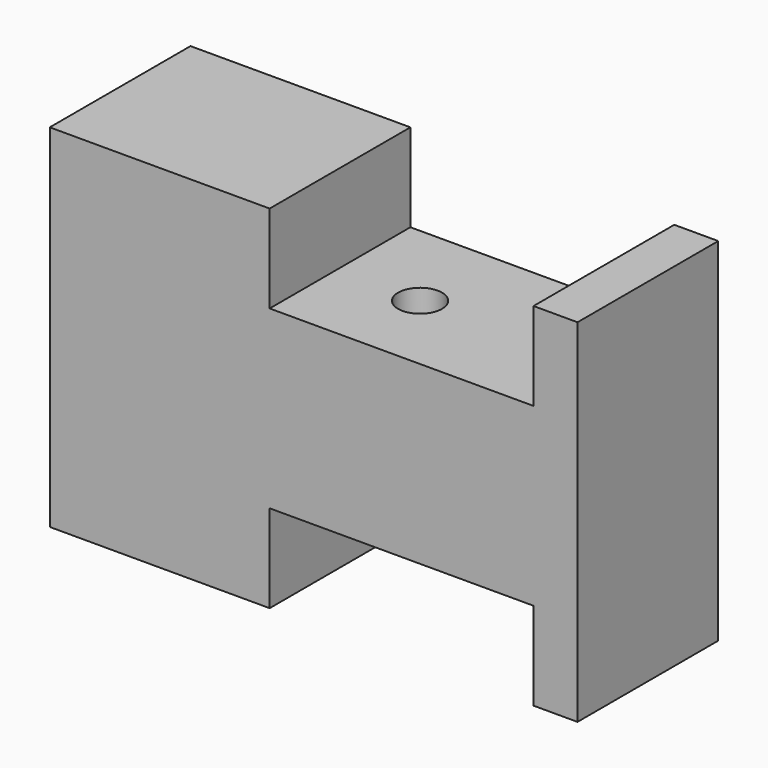
from build123d import *

# Parameters (mm, degrees)
F0_W     = 76.2
F0_H     = 25.4
F1_DEPTH = 25.4
F2_W     = 38.1
F2_H     = 25.4
F3_DEPTH = 12.7
F4_R     = 3.175
F5_DEPTH = 12.7


with BuildPart() as f1:
    # F0 (on Front) → F1 (new body)
    with BuildSketch(Plane.XZ):
        with Locations((38.1, 12.7)):
            Rectangle(F0_W, F0_H)
    extrude(amount=F1_DEPTH)

    # F2 (on face) → F3 (cut)
    with BuildSketch(Plane.XY.offset(25.4)):
        with Locations((50.8, -12.7)):
            Rectangle(F2_W, F2_H)
    extrude(amount=-F3_DEPTH, mode=Mode.SUBTRACT)

    # F4 (on face) → F5 (cut)
    with BuildSketch(Plane.XY.offset(12.7)):
        with Locations((43.815, -13.335)):
            Circle(F4_R)
    extrude(amount=-F5_DEPTH, mode=Mode.SUBTRACT)

    # F6: F1 across plane


with BuildPart() as f1_1:
    add(f1.part)
    add(f1.part.mirror(Plane.XY))


solid = f1_1.part
